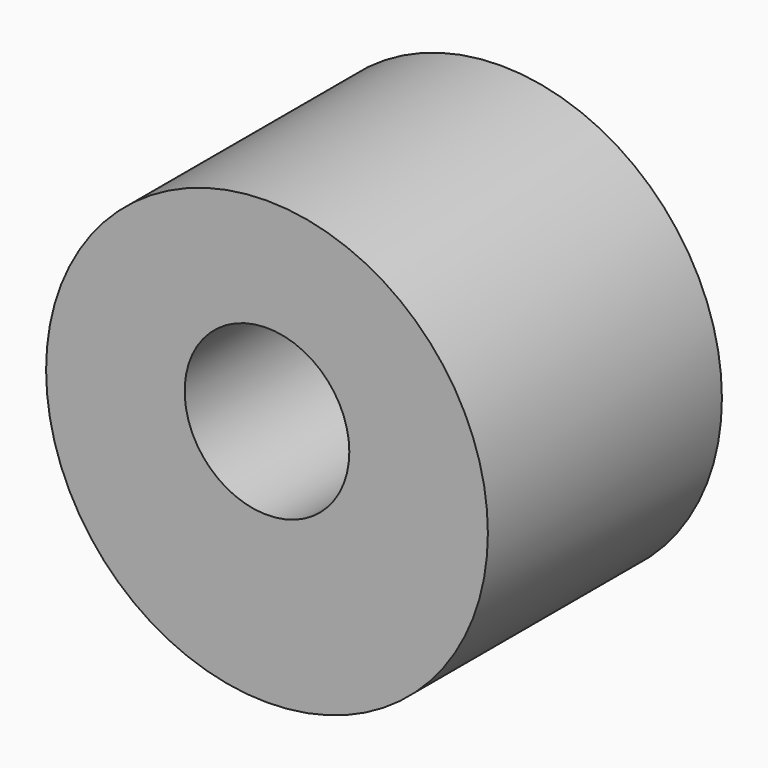
from build123d import *

# Parameters (mm, degrees)
F0_R     = 19.179614
F0_R_2   = 12.389028
F0_R_3   = 7.148948
F1_DEPTH = 25.4


with BuildPart() as f1:
    # F0 (on Front) → F1 (new body)
    with BuildSketch(Plane.XZ):
        with Locations((-19.282987, -19.282985)):
            Circle(F0_R)
        with Locations((-19.282987, -16.98054)):
            Circle(F0_R_2, mode=Mode.SUBTRACT)
        with Locations((-19.282987, -16.98054)):
            Circle(F0_R_2)
        with Locations((-19.282987, -16.98054)):
            Circle(F0_R_3, mode=Mode.SUBTRACT)
    extrude(amount=F1_DEPTH)


solid = f1.part
